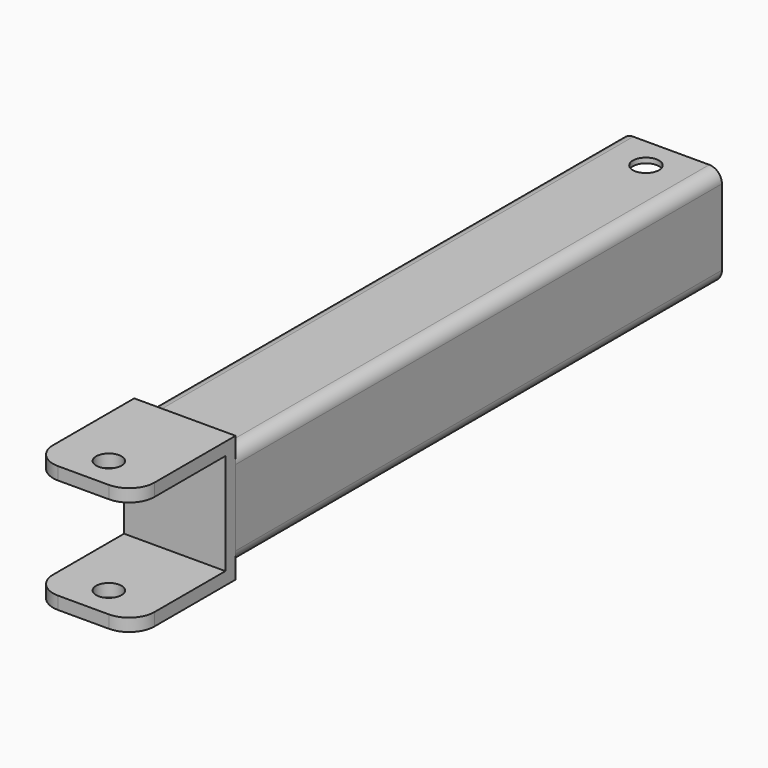
from build123d import *

# Parameters (mm, degrees)
F0_W     = 25.4
F0_H     = 25.4
F0_W_2   = 22.86
F0_H_2   = 22.86
F1_DEPTH = 152.4
F2_R     = 3.175
F3_R     = 3.282866
F4_DEPTH = 25.401
F6_DEPTH = 25.4
F7_R     = 3.175
F8_DEPTH = 31.751
F9_R     = 6.35


with BuildPart() as f1:
    # F0 (on Front) → F1 (new body)
    with BuildSketch(Plane.XZ):
        Rectangle(F0_W, F0_H)
        Rectangle(F0_W_2, F0_H_2, mode=Mode.SUBTRACT)
    extrude(amount=F1_DEPTH)

    # F2
    f2_edges = [f1.edges().sort_by_distance(p)[0] for p in [
        (12.7, -76.2, 12.7),
        (-12.7, -76.2, 12.7),
        (12.7, -76.2, -12.7),
        (-12.7, -76.2, -12.7),
        (11.43, -76.2, 11.43),
        (11.43, -76.2, -11.43),
        (-11.43, -76.2, 11.43),
        (-11.43, -76.2, -11.43),
    ]]
    fillet(f2_edges, radius=F2_R)

    # F3 (on face) → F4 (cut, through all)
    with BuildSketch(Plane.XY.offset(12.7)):
        with Locations((0, -7.9248)):
            Circle(F3_R)
    extrude(amount=-F4_DEPTH, mode=Mode.SUBTRACT)


with BuildPart() as f6:
    # F5 (on face) → F6 (new body)
    with BuildSketch(Plane.YZ.offset(12.7)):
        Polygon((-184.15, -15.875), (-152.4, -15.875), (-152.4, 15.875), (-184.15, 15.875), (-184.15, 12.7), (-155.575, 12.7), (-155.575, -12.7), (-184.15, -12.7), align=None)
    extrude(amount=-F6_DEPTH)

    # F7 (on face) → F8 (cut, through all)
    with BuildSketch(Plane.XY.offset(15.875)):
        with Locations((0, -176.2252)):
            Circle(F7_R)
    extrude(amount=-F8_DEPTH, mode=Mode.SUBTRACT)

    # F9
    f9_edges = [f6.edges().sort_by_distance(p)[0] for p in [
        (12.7, -184.15, 14.2875),
        (-12.7, -184.15, 14.2875),
        (12.7, -184.15, -14.2875),
        (-12.7, -184.15, -14.2875),
    ]]
    fillet(f9_edges, radius=F9_R)


solid = Compound([f1.part, f6.part])
